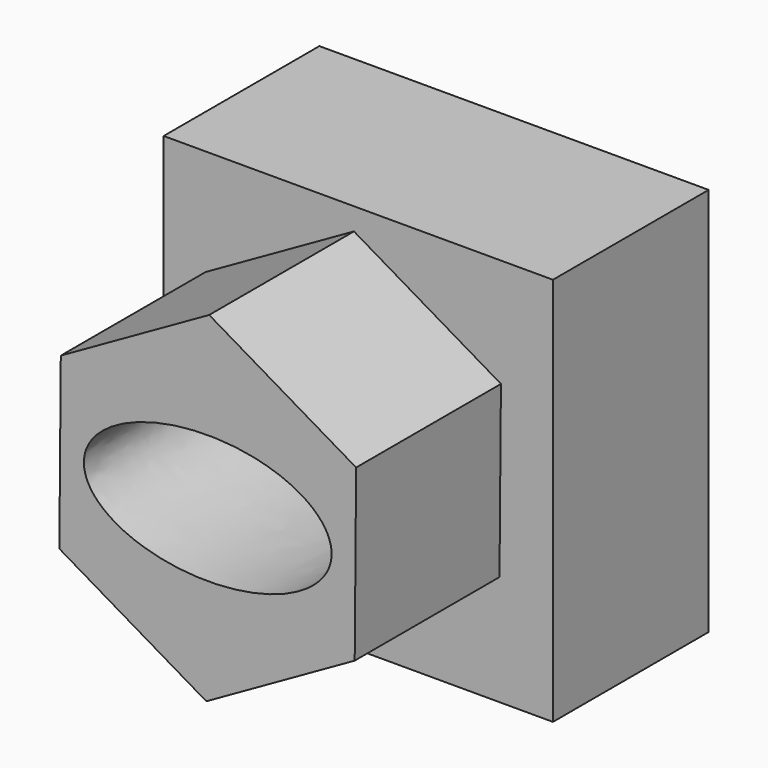
from build123d import *

# Parameters (mm, degrees)
F0_W     = 50.8
F0_H     = 50.8
F1_DEPTH = 25.4
F2_DEPTH = 49.022


with BuildPart() as f1:
    # F0 (on Front) → F1 (new body)
    with BuildSketch(Plane.XZ):
        with Locations((-25.818521, 37.724774)):
            Rectangle(F0_W, F0_H)
        Polygon((-7.20491, 48.949739), (-7.390808, 26.697368), (-26.754875, 15.732176), (-45.933045, 27.019353), (-45.747146, 49.271724), (-26.383079, 60.236917), align=None, mode=Mode.SUBTRACT)
    extrude(amount=F1_DEPTH)

    # F0 (on Front) → F2 (join)
    with BuildSketch(Plane.XZ):
        Polygon((-26.754875, 15.732176), (-7.390808, 26.697368), (-7.20491, 48.949739), (-26.383079, 60.236917), (-45.747146, 49.271724), (-45.933045, 27.019353), align=None)
        with BuildLine():
            add(Edge.make_bspline(
                [(-10.405341, 37.984546), (-10.405341, 52.519553), (-34.650795, 45.25205), (-58.896249, 37.984546), (-34.650795, 30.717043), (-10.405341, 23.449539), (-10.405341, 37.984546)],
                knots=[0, 0, 0, 2.094395, 2.094395, 4.18879, 4.18879, 6.283185, 6.283185, 6.283185], degree=2, weights=[1, 0.5, 1, 0.5, 1, 0.5, 1]))
        make_face(mode=Mode.SUBTRACT)
    extrude(amount=F2_DEPTH)


solid = f1.part
